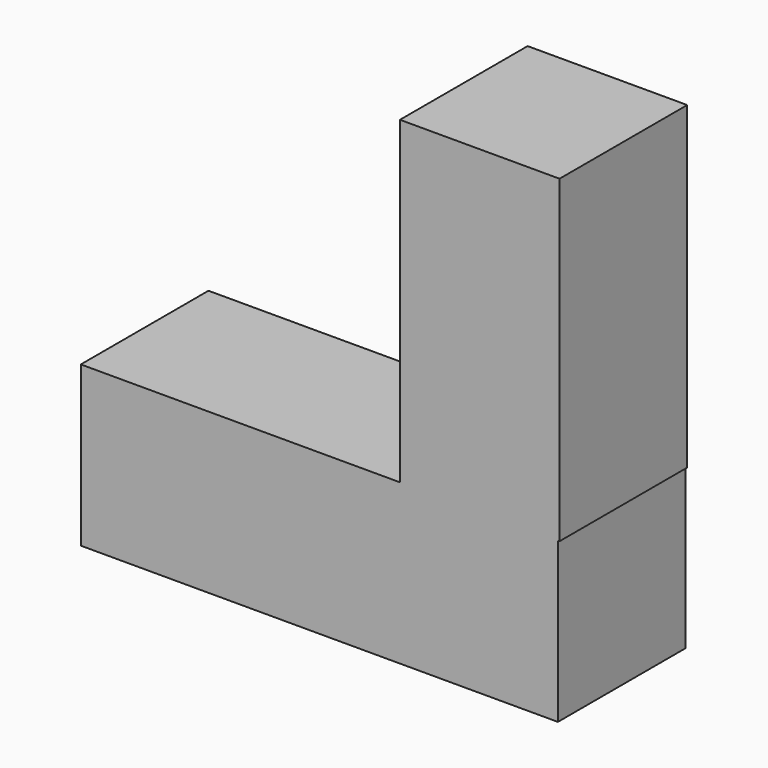
from build123d import *

# Parameters (mm, degrees)
F0_W     = 25.138144
F0_H     = 25.4
F0_W_2   = 25.4
F1_DEPTH = 25.4


with BuildPart() as f1:
    # F0 (on Front) → F1 (new body)
    with BuildSketch(Plane.XZ):
        Polygon((0, 25.4), (0, 0), (25.138144, 0), (25.4, 0), (25.4, 25.4), align=None)
        with Locations((12.569072, -12.7)):
            Rectangle(F0_W, F0_H)
        with Locations((-12.7, -12.7)):
            Rectangle(F0_W_2, F0_H)
        with Locations((-38.1, -12.7)):
            Rectangle(F0_W_2, F0_H)
        with Locations((12.7, 38.1)):
            Rectangle(F0_W_2, F0_H)
    extrude(amount=F1_DEPTH)


solid = f1.part
